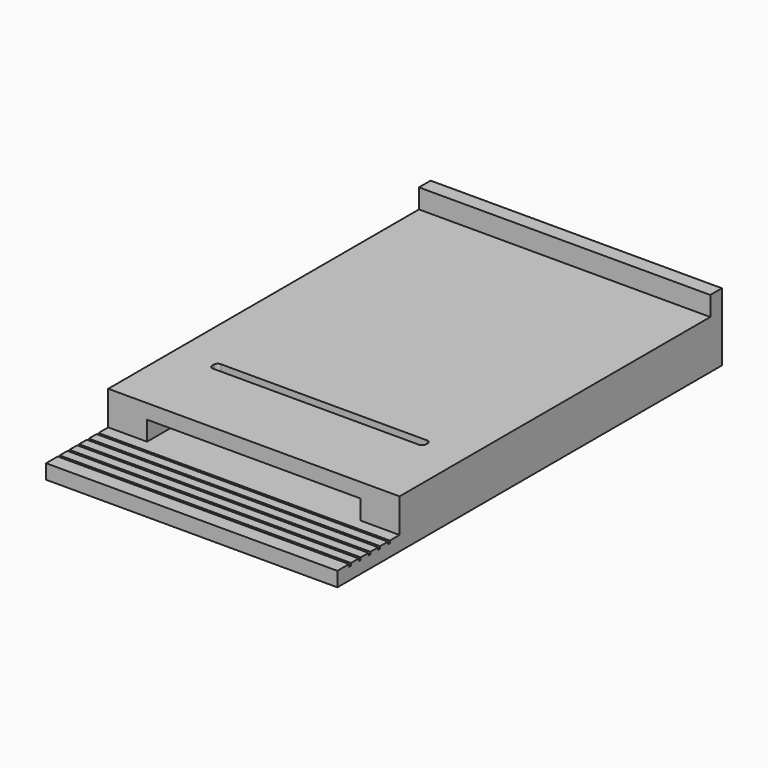
from build123d import *

# Parameters (mm, degrees)
F0_W      = 381
F0_H      = 609.6
F1_DEPTH  = 19.05
F2_W      = 50.8
F2_H      = 457.2
F3_DEPTH  = 25.4
F4_W      = 381
F4_H      = 508
F5_DEPTH  = 19.05
F6_W      = 381
F6_H      = 88.9
F7_DEPTH  = 19.05
F8_W      = 3.175
F8_H      = 3.175
F9_DEPTH  = 381
F10_W     = 279.4
F10_H     = 12.7
F11_DEPTH = 19.05
F12_R     = 5.08


with BuildPart() as f1:
    # F0 (on Top) → F1 (new body)
    with BuildSketch(Plane.XY):
        with Locations((-190.5, 304.8)):
            Rectangle(F0_W, F0_H)
    extrude(amount=F1_DEPTH)

    # F2 (on face) → F3 (join)
    with BuildSketch(Plane.XY.offset(19.05)):
        with Locations((-25.4, 330.2)):
            Rectangle(F2_W, F2_H)
        Polygon((0, 609.6), (-381, 609.6), (-381, 558.8), (-330.2, 558.8), (-50.8, 558.8), (0, 558.8), align=None)
        with Locations((-355.6, 330.2)):
            Rectangle(F2_W, F2_H)
    extrude(amount=F3_DEPTH)

    # F4 (on face) → F5 (join)
    with BuildSketch(Plane.XY.offset(44.45)):
        with Locations((-190.5, 355.6)):
            Rectangle(F4_W, F4_H)
    extrude(amount=F5_DEPTH)

    # F6 (on face) → F7 (join)
    with BuildSketch(Plane(origin=(0, 609.6, 0), x_dir=(-1, 0, 0), z_dir=(0, 1, 0))):
        with Locations((190.5, 44.45)):
            Rectangle(F6_W, F6_H)
    extrude(amount=F7_DEPTH)

    # F8 (on face) → F9 (cut)
    with BuildSketch(Plane.YZ):
        with Locations((20.6375, 17.4625)):
            Rectangle(F8_W, F8_H)
        with Locations((36.5125, 17.4625)):
            Rectangle(F8_W, F8_H)
        with Locations((52.3875, 17.4625)):
            Rectangle(F8_W, F8_H)
        with Locations((68.2625, 17.4625)):
            Rectangle(F8_W, F8_H)
        with Locations((84.1375, 17.4625)):
            Rectangle(F8_W, F8_H)
    extrude(amount=-F9_DEPTH, mode=Mode.SUBTRACT)

    # F10 (on face) → F11 (cut)
    with BuildSketch(Plane.XY.offset(63.5)):
        with Locations((-190.5, 209.55)):
            Rectangle(F10_W, F10_H)
    extrude(amount=-F11_DEPTH, mode=Mode.SUBTRACT)

    # F12
    f12_edges = [f1.edges().sort_by_distance(p)[0] for p in [
        (-330.2, 215.9, 53.975),
        (-330.2, 203.2, 53.975),
        (-50.8, 215.9, 53.975),
        (-50.8, 203.2, 53.975),
    ]]
    fillet(f12_edges, radius=F12_R)


solid = f1.part
